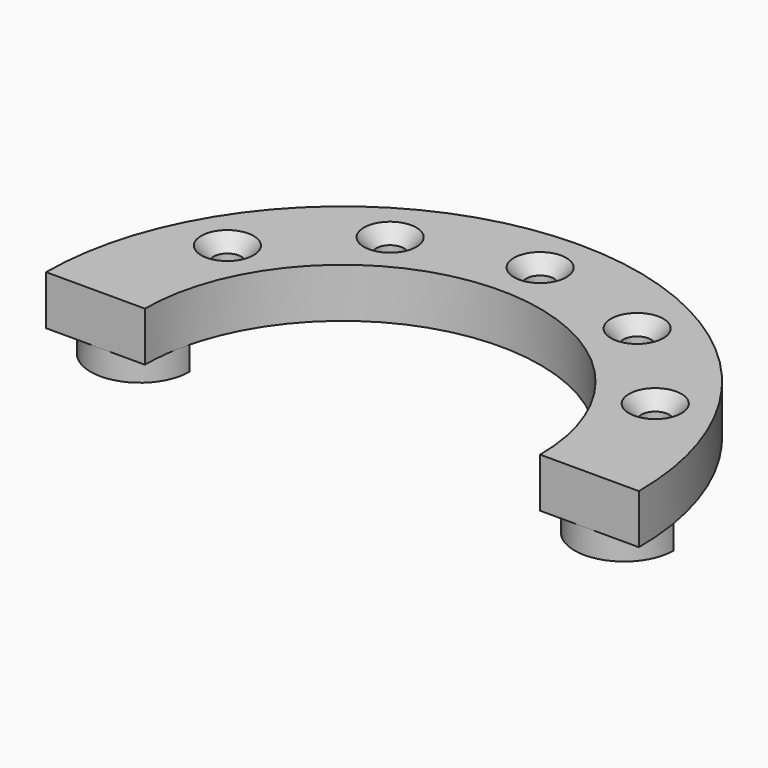
from build123d import *

# Parameters (mm, degrees)
F1_DEPTH       = 12.7
F3_DEPTH       = 6.35
F5_D           = 7.1374
F5_CSINK_D     = 13.4874
F5_CSINK_ANGLE = 82


with BuildPart() as f1:
    # F0 (on Top) → F1 (new body)
    with BuildSketch(Plane.XY):
        with BuildLine():
            Line((-76.2, 0), (-50.8, 0))
            ThreePointArc((-50.8, 0), (0, 50.8), (50.8, 0))
            Line((50.8, 0), (76.2, 0))
            ThreePointArc((76.2, 0), (0, 76.2), (-76.2, 0))
        make_face()
    extrude(amount=F1_DEPTH)

    # F2 (on face) → F3 (join)
    with BuildSketch(Plane(origin=(0, 0, 0), x_dir=(1, 0, 0), z_dir=(0, 0, -1))):
        with BuildLine():
            Line((-74.9170394667, -12.7), (-49.5170394667, -12.7))
            ThreePointArc((-49.5170394667, -12.7), (-62.2170394667, 0), (-74.9170394667, -12.7))
        make_face()
        with BuildLine():
            ThreePointArc((74.9170394667, -12.7), (62.2170394667, 0), (49.5170394667, -12.7))
            Line((49.5170394667, -12.7), (74.9170394667, -12.7))
        make_face()
    extrude(amount=F3_DEPTH)

    # F5 (through all)
    with Locations(Plane.XY.offset(12.7)):
        with Locations((-54.9926131403, 31.75), (-31.75, 54.9926131403), (0, 63.5), (31.75, 54.9926131403), (54.9926131403, 31.75)):
            CounterSinkHole(F5_D / 2, F5_CSINK_D / 2, counter_sink_angle=F5_CSINK_ANGLE)


solid = f1.part
